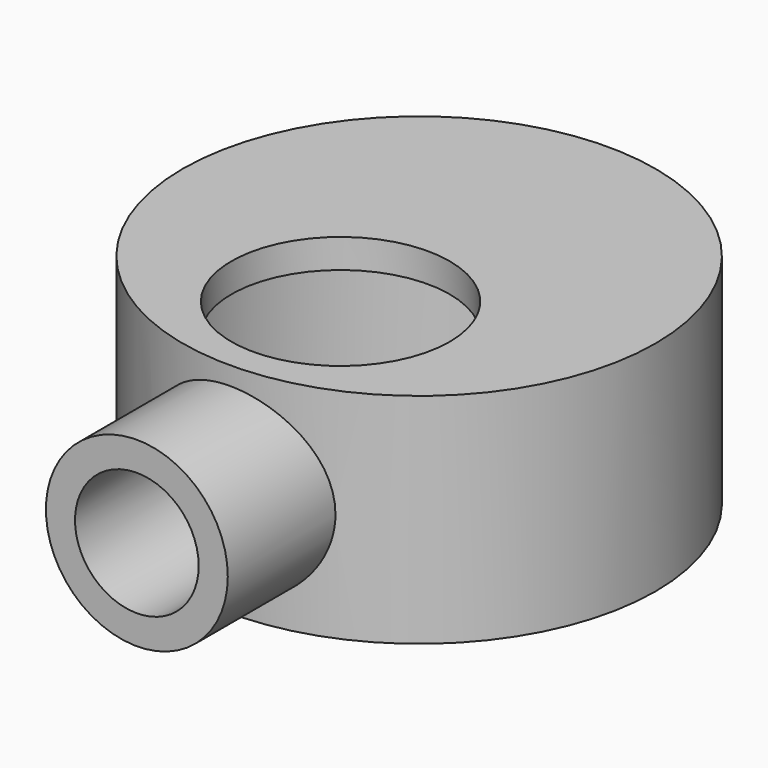
from build123d import *

# Parameters (mm, degrees)
F0_R      = 12.5
F1_DEPTH  = 20
F2_R      = 32.5
F3_DEPTH  = 30
F4_R      = 28.5
F5_DEPTH  = 26
F6_R      = 11
F7_DEPTH  = 19.5
F8_R      = 15
F9_DEPTH  = 44.3
F10_R     = 8.5
F11_DEPTH = 41.2
F12_R     = 1.5
F13_DEPTH = 4


with BuildPart() as f1:
    # F0 (on Front) → F1 (new body, symmetric)
    with BuildSketch(Plane.XZ):
        with Locations((0, 15)):
            Circle(F0_R)
    extrude(amount=F1_DEPTH, both=True)

    # F2 (on Top) → F3 (join)
    with BuildSketch(Plane.XY):
        with Locations((0, 28.5)):
            Circle(F2_R)
    extrude(amount=F3_DEPTH)

    # F4 (on Top) → F5 (cut)
    with BuildSketch(Plane.XY):
        with Locations((0, 28.5)):
            Circle(F4_R)
    extrude(amount=F5_DEPTH, mode=Mode.SUBTRACT)

    # F6 (on Front) → F7 (cut)
    with BuildSketch(Plane.XZ):
        with Locations((0, 15)):
            Circle(F6_R)
    extrude(amount=-F7_DEPTH, mode=Mode.SUBTRACT)

    # F8 (on Top) → F9 (cut)
    with BuildSketch(Plane.XY):
        with Locations((0, 15)):
            Circle(F8_R)
    extrude(amount=F9_DEPTH, mode=Mode.SUBTRACT)

    # F10 (on Front) → F11 (cut)
    with BuildSketch(Plane.XZ):
        with Locations((0, 15)):
            Circle(F10_R)
    extrude(amount=F11_DEPTH, mode=Mode.SUBTRACT)

    # F12 (on Top) → F13 (join)
    with BuildSketch(Plane.XY):
        with BuildLine():
            Line((29, 28.5), (29, 34.138157))
            ThreePointArc((29, 34.138157), (23.361843, 28.5), (29, 22.861843))
            Line((29, 22.861843), (29, 28.5))
        make_face()
        with Locations((26.180921, 28.5)):
            Circle(F12_R, mode=Mode.SUBTRACT)
        with BuildLine():
            ThreePointArc((-29, 22.861843), (-23.361843, 28.5), (-29, 34.138157))
            Line((-29, 34.138157), (-29, 28.5))
            Line((-29, 28.5), (-29, 22.861843))
        make_face()
        with Locations((-26.180921, 28.5)):
            Circle(F12_R, mode=Mode.SUBTRACT)
    extrude(amount=F13_DEPTH)


solid = f1.part
